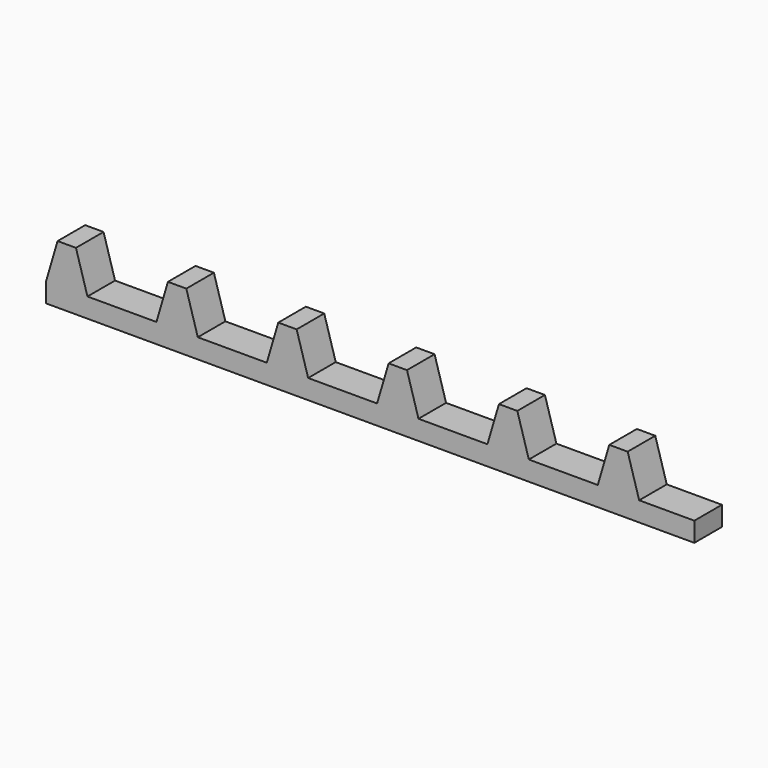
from build123d import *

# Parameters (mm, degrees)
F1_DEPTH = 3.81


with BuildPart() as f1:
    # F0 (on Front) → F1 (new body)
    with BuildSketch(Plane.XZ):
        Polygon((-38.4448663006, 16.8945933835), (-38.4448663006, 14.7355933835), (33.1831336994, 14.7355933835), (33.1831336994, 16.8945933835), (27.0871336994, 16.8945933835), (22.5151336994, 16.8945933835), (14.8951336994, 16.8945933835), (10.3231336994, 16.8945933835), (2.7031336994, 16.8945933835), (-1.8688663006, 16.8945933835), (-9.4888663006, 16.8945933835), (-14.0608663006, 16.8945933835), (-21.6808663006, 16.8945933835), (-26.2528663006, 16.8945933835), (-33.8728663006, 16.8945933835), align=None)
        Polygon((-37.1748663006, 21.2125933835), (-38.4448663006, 16.8945933835), (-33.8728663006, 16.8945933835), (-35.1428663006, 21.2125933835), align=None)
        Polygon((22.5151336994, 16.8945933835), (27.0871336994, 16.8945933835), (25.8171336994, 21.2125933835), (23.7851336994, 21.2125933835), align=None)
        Polygon((-24.9828663006, 21.2125933835), (-26.2528663006, 16.8945933835), (-21.6808663006, 16.8945933835), (-22.9508663006, 21.2125933835), align=None)
        Polygon((10.3231336994, 16.8945933835), (14.8951336994, 16.8945933835), (13.6251336994, 21.2125933835), (11.5931336994, 21.2125933835), align=None)
        Polygon((-12.7908663006, 21.2125933835), (-14.0608663006, 16.8945933835), (-9.4888663006, 16.8945933835), (-10.7588663006, 21.2125933835), align=None)
        Polygon((-1.8688663006, 16.8945933835), (2.7031336994, 16.8945933835), (1.4331336994, 21.2125933835), (-0.5988663006, 21.2125933835), align=None)
    extrude(amount=F1_DEPTH)


solid = f1.part
